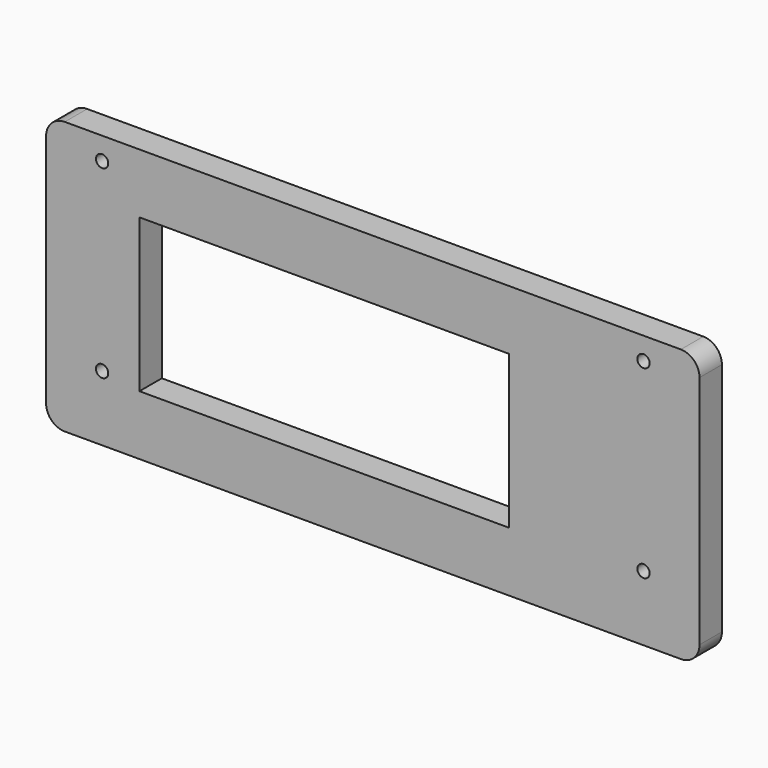
from build123d import *

# Parameters (mm, degrees)
F0_W     = 175
F0_H     = 73
F0_W_2   = 99
F0_H_2   = 41
F1_DEPTH = 7.5
F2_R     = 5
F3_D     = 3.3


with BuildPart() as f1:
    # F0 (on Front) → F1 (new body)
    with BuildSketch(Plane.XZ):
        Rectangle(F0_W, F0_H)
        with Locations((-13, 0)):
            Rectangle(F0_W_2, F0_H_2, mode=Mode.SUBTRACT)
    extrude(amount=F1_DEPTH)

    # F2
    f2_edges = [f1.edges().sort_by_distance(p)[0] for p in [
        (-87.5, -3.75, 36.5),
        (87.5, -3.75, 36.5),
        (87.5, -3.75, -36.5),
        (-87.5, -3.75, -36.5),
    ]]
    fillet(f2_edges, radius=F2_R)

    # F3 (through all)
    with Locations(Plane(origin=(0, 0, 0), x_dir=(1, 0, 0), z_dir=(0, 1, 0))):
        with Locations((-72.5, -30.5), (-72.5, 19), (72.5, 19), (72.5, -30.5)):
            Hole(F3_D / 2)


solid = f1.part
